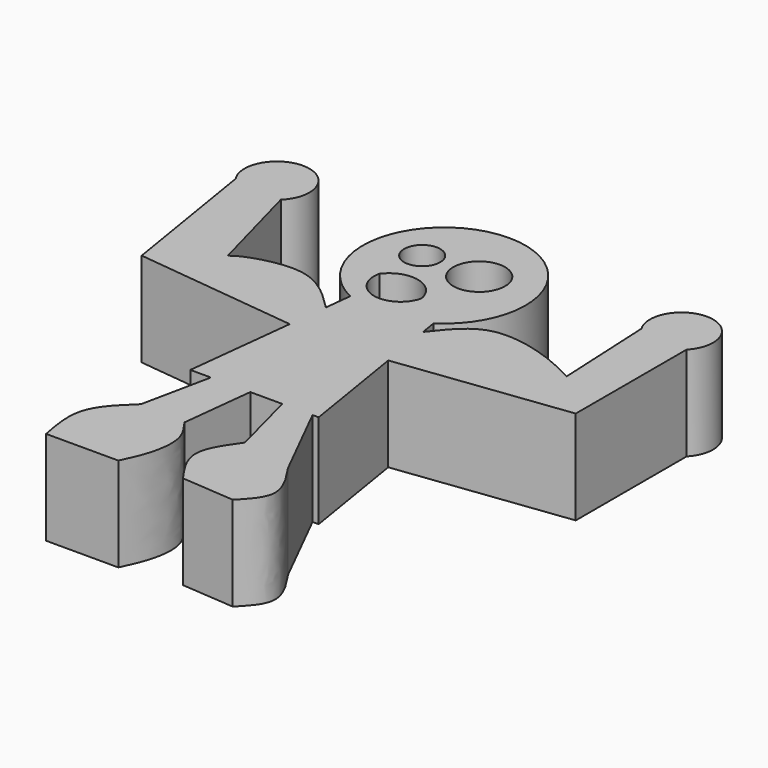
from build123d import *

# Parameters (mm, degrees)
F1_DEPTH = 13.462
F2_R     = 2.5787086855
F2_R_2   = 3.7049325183
F3_DEPTH = 51.054


with BuildPart() as f1:
    # F0 (on Top) → F1 (new body)
    with BuildSketch(Plane.XY):
        with BuildLine():
            Line((-1.1731624716, 29.386633506), (-1.5578181103, 31.7586758036))
            ThreePointArc((-1.5578181103, 31.7586758036), (-8.5892966055, 53.1501214266), (-12.9270530787, 31.0544317011))
            Line((-12.9270530787, 31.0544317011), (-13.3540641995, 27.2469156661))
            add(Edge.make_bspline(
                [(-13.3540641995, 27.2469156661), (-15.5711252213, 29.4613092868), (-19.8506668609, 33.7357021036), (-28.2532507221, 31.2905825189), (-29.3722865567, 30.4399825667), (-29.7304913402, 30.1677044481)],
                knots=[0, 0, 0, 0, 0.4222512928, 0.8150619094, 1, 1, 1, 1], degree=3))
            Line((-29.7304913402, 30.1677044481), (-33.5781240097, 44.4500036538))
            ThreePointArc((-33.5781240097, 44.4500036538), (-36.2802052519, 52.4065887456), (-40.6776466348, 45.246211755))
            Line((-40.6776466348, 45.246211755), (-37.2613340838, 24.1789581996))
            Line((-37.2613340838, 24.1789581996), (-13.9908194542, 21.5691810008))
            Line((-13.9908194542, 21.5691810008), (-15.739671886, 5.9752459638))
            Line((-15.739671886, 5.9752459638), (-12.8006286751, 5.9752459638))
            Line((-12.8006286751, 5.9752459638), (-14.8652466014, -3.9349179715))
            add(Edge.make_bspline(
                [(-14.8652466014, -3.9349179715), (-16.5844574114, -5.5546961752), (-20.0681705882, -8.836924648), (-19.1297413908, -13.7091171795), (-18.6544265598, -16.1768849941)],
                knots=[0, 0, 0, 0, 0.4934995285, 1, 1, 1, 1], degree=3))
            Line((-18.6544265598, -16.1768849941), (-8.318375005, -16.1768849941))
            add(Edge.make_bspline(
                [(-8.318375005, -4.3395342669), (-7.5533936495, -5.3722621317), (-5.9538390521, -7.5316671838), (-6.4966581003, -12.3379470113), (-7.7169562666, -14.9095040786), (-8.318375005, -16.1768849941)],
                knots=[0, 0, 0, 0, 0.3173430534, 0.66355544, 1, 1, 1, 1], degree=3))
            Line((-8.318375005, -4.3395342669), (-7.1615772854, 5.9752459638))
            Line((-7.1615772854, 5.9752459638), (-2.5852602094, 5.9752459638))
            Line((-2.5852602094, 5.9752459638), (0, -3.9349179715))
            add(Edge.make_bspline(
                [(0, -3.9349179715), (-1.3116395867, -5.7809291246), (-3.93491867, -9.472951304), (-1.3116395266, -13.1649729324), (0, -15.0109836832)],
                knots=[0, 0, 0, 0, 0.5000000172, 1, 1, 1, 1], degree=3))
            Line((0, -15.0109836832), (7.5783608482, -15.5939338729))
            add(Edge.make_bspline(
                [(7.5783608482, -5.6837708689), (8.9546777152, -7.7289454385), (11.5299473575, -11.555735699), (8.8336566649, -14.311124231), (7.5783608482, -15.5939338729)],
                knots=[0, 0, 0, 0, 0.5344360235, 1, 1, 1, 1], degree=3))
            Line((7.5783608482, -5.6837708689), (1.7488526109, 5.9752459638))
            Line((1.7488526109, 5.9752459638), (2.6232800447, 5.9752459638))
            Line((2.6232800447, 5.9752459638), (0.092654822, 21.5807628544))
            Line((0.092654822, 21.5807628544), (24.4839340448, 24.6296729892))
            Line((24.4839340448, 24.6296729892), (24.4839340448, 44.4500036538))
            ThreePointArc((24.4839340448, 44.4500036538), (21.7460907945, 52.0877108226), (17.3844114197, 45.246211755))
            Line((17.3844114197, 45.246211755), (18.0714763701, 31.042130664))
            add(Edge.make_bspline(
                [(-1.1731624716, 29.386633506), (0.4279496161, 31.4549583801), (3.7477782874, 35.7435302243), (13.027564404, 33.6247114531), (16.5033868264, 31.8450229346), (18.0714763701, 31.042130664)],
                knots=[0, 0, 0, 0, 0.3383188601, 0.7014878349, 1, 1, 1, 1], degree=3))
        make_face()
    extrude(amount=F1_DEPTH)

    # F2 (on Top) → F3 (cut)
    with BuildSketch(Plane.XY):
        with Locations((-12.788428925, 43.7586121261)):
            Circle(F2_R)
        with Locations((-4.637576174, 43.7586121261)):
            Circle(F2_R_2)
        with BuildLine():
            ThreePointArc((-6.3665448688, 35.6077551842), (-9.5014396327, 38.9152599692), (-13.7764113024, 37.3367257416))
            ThreePointArc((-13.7764113024, 37.3367257416), (-10.9316519215, 32.7857848398), (-6.3665448688, 35.6077551842))
        make_face()
    extrude(amount=F3_DEPTH, mode=Mode.SUBTRACT)


solid = f1.part
